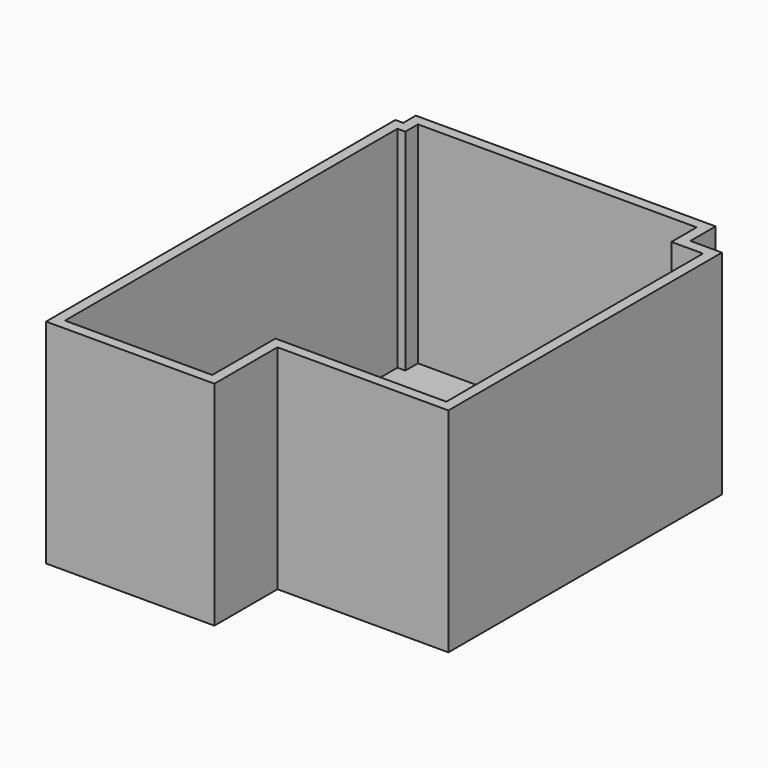
from build123d import *

# Parameters (mm, degrees)
F0_W          = 1422.4
F0_H          = 762
F1_DEPTH      = 25.4
F3_DEPTH      = 2032
F3_DEPTH_BACK = 25.4


with BuildPart() as f1:
    # F0 (on Top) → F1 (new body)
    with BuildSketch(Plane.XY):
        with Locations((-825.5, -2082.8)):
            Rectangle(F0_W, F0_H)
        Polygon((-114.3, -1701.8), (1536.7, -1701.8), (1536.7, 1397), (1231.9, 1397), (1231.9, 1701.8), (-1460.5, 1701.8), (-1460.5, 1549.4), (-1536.7, 1549.4), (-1536.7, -1701.8), align=None)
    extrude(amount=F1_DEPTH)

    # F2 (on face) → F3 (join, two sides)
    with BuildSketch(Plane.XY.offset(25.4)) as f3_sk:
        Polygon((-1562.1, 1651), (-1638.3, 1651), (-1638.3, -2565.4), (-12.7, -2565.4), (-12.7, -1803.4), (1638.3, -1803.4), (1638.3, 1498.6), (1333.5, 1498.6), (1333.5, 1803.4), (-1562.1, 1803.4), align=None)
        Polygon((-114.3, -1701.8), (-114.3, -2463.8), (-1536.7, -2463.8), (-1536.7, 1549.4), (-1460.5, 1549.4), (-1460.5, 1701.8), (1231.9, 1701.8), (1231.9, 1397), (1536.7, 1397), (1536.7, -1701.8), align=None, mode=Mode.SUBTRACT)
    extrude(amount=F3_DEPTH)
    extrude(f3_sk.sketch, amount=-F3_DEPTH_BACK)


solid = f1.part
